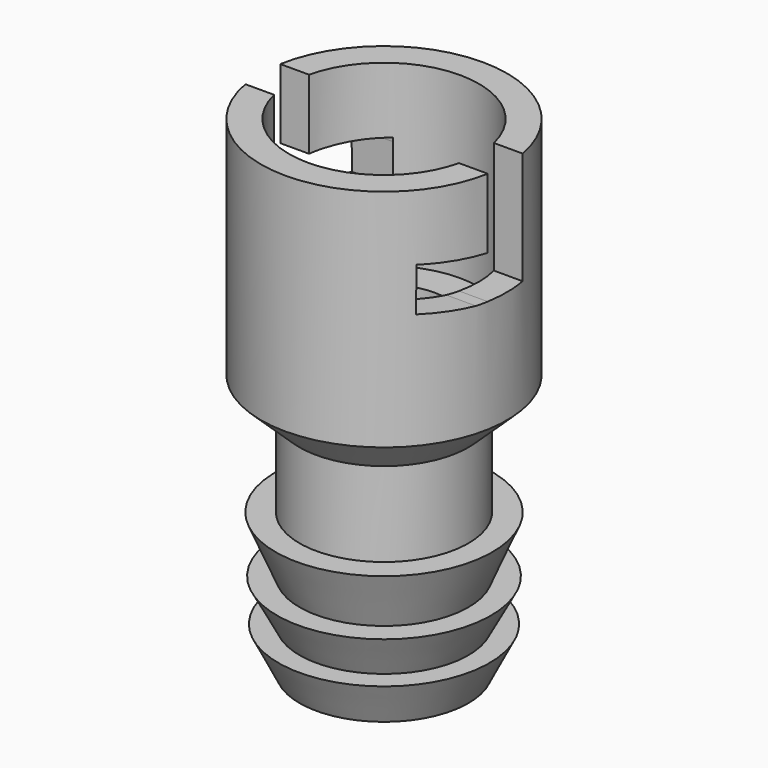
from build123d import *

# Parameters (mm, degrees)
F3_DEPTH = 25
F4_DEPTH = 25


with BuildPart() as f1:
    # F0 (on Right) → F1 (revolve)
    with BuildSketch(Plane.YZ):
        Polygon((6.75, 16), (6.75, 4), (6.75, 3.3), (4.5, 3.3), (4.5, 0), (4.5, -19.3), (6, -18.6), (7.5, -15.6), (6, -15.6), (7.6, -12.6), (6, -12.6), (7.7, -8.6), (6, -8.6), (6, -2.6), (8.75, 0), (8.75, 16), align=None)
    revolve(axis=Axis((0, 0, 14.120129), (0, 0, 1)))

    # F2 (on Right) → F3 (cut)
    with BuildSketch(Plane.YZ):
        Polygon((-1.55, 11.05), (-1.55, 8), (1.55, 8.014865), (1.55, 11.05), (1.55, 16.095196), (-1.55, 16.095196), align=None)
        Polygon((-2.367748, 8), (-1.55, 8), (-1.55, 11.05), (-5.562683, 11.333183), (-5.562683, 11.072353), (-5.579271, 8.226643), align=None)
    extrude(amount=F3_DEPTH, mode=Mode.SUBTRACT)

    # F2 (on Right) → F4 (cut)
    with BuildSketch(Plane.YZ):
        Polygon((1.55, 11.05), (1.55, 8.014865), (1.55, 8), (2.367748, 8), (5.579271, 8.226643), (5.562683, 11.072353), (5.562683, 11.333183), align=None)
        Polygon((-1.55, 11.05), (-1.55, 8), (1.55, 8.014865), (1.55, 11.05), (1.55, 16.095196), (-1.55, 16.095196), align=None)
    extrude(amount=-F4_DEPTH, mode=Mode.SUBTRACT)


solid = f1.part
